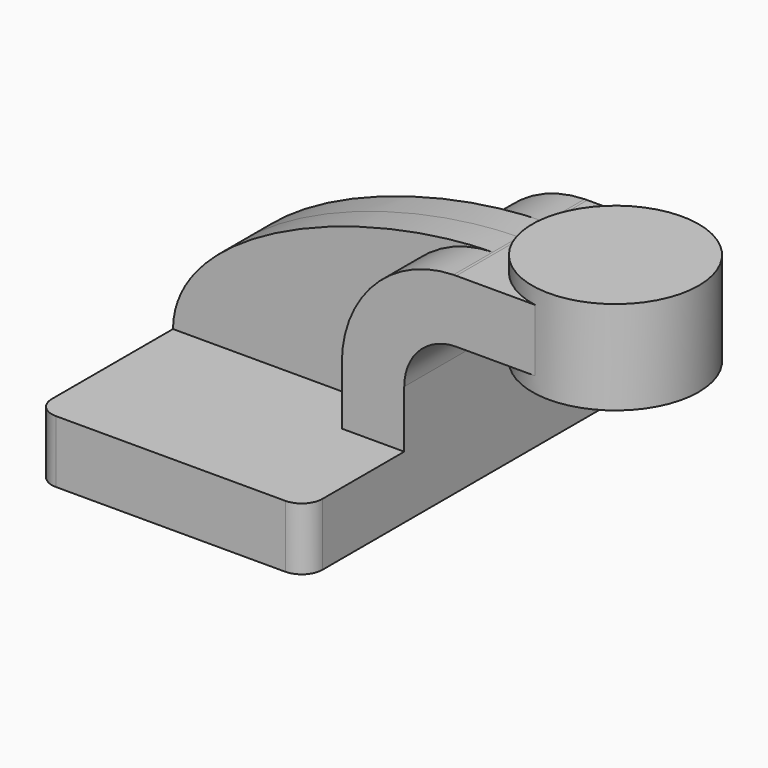
from build123d import *

# Parameters (mm, degrees)
F1_DEPTH = 62.5
F2_DEPTH = 25
F3_DEPTH = 10
F0_W     = 25.4
F0_H     = 19.05
F4_DEPTH = 25
F6_R     = 6.3


with BuildPart() as f1:
    # F0 (on Front) → F1 (new body, symmetric)
    with BuildSketch(Plane.XZ):
        Polygon((22.225, 9.525), (-41.275, 9.525), (-41.275, -9.525), (41.275, -9.525), (41.275, 9.525), align=None)
    extrude(amount=F1_DEPTH, both=True)

    # F0 (on Front) → F2 (join, symmetric)
    with BuildSketch(Plane.XZ):
        with BuildLine():
            Line((22.225, 27), (22.225, 9.525))
            Line((22.225, 9.525), (41.275, 9.525))
            Line((41.275, 9.525), (41.275, 27))
            ThreePointArc((41.275, 27), (45.9246798487, 38.2253201513), (57.15, 42.875))
            Line((57.15, 42.875), (60.325, 42.875))
            Line((60.325, 42.875), (60.325, 61.925))
            Line((60.325, 61.925), (57.15, 61.925))
            add(Edge.make_bspline(
                [(56.3095148164, 61.9148852161), (56.5902291642, 61.9192274348), (56.8703973727, 61.9226005748), (57.15, 61.925)],
                knots=[110.7716747291, 110.7716747291, 110.7716747291, 110.7716747291, 111.5044421761, 111.5044421761, 111.5044421761, 111.5044421761], degree=3))
            ThreePointArc((56.3095148164, 61.9148852161), (32.1589058859, 51.3967383062), (22.225, 27))
        make_face()
    extrude(amount=F2_DEPTH, both=True)

    # F0 (on Front) → F3 (join, symmetric)
    with BuildSketch(Plane.XZ):
        with BuildLine():
            add(Edge.make_bspline(
                [(-41.275, 9.525), (-41.0414624957, 38.4566380676), (13.8742257665, 61.2584766517), (56.3095148164, 61.9148852161)],
                knots=[0, 0, 0, 0, 110.7716747291, 110.7716747291, 110.7716747291, 110.7716747291], degree=3))
            Line((-41.275, 9.525), (22.225, 9.525))
            Line((22.225, 9.525), (22.225, 27))
            ThreePointArc((22.225, 27), (32.1589058859, 51.3967383062), (56.3095148164, 61.9148852161))
        make_face()
    extrude(amount=F3_DEPTH, both=True)

    # F0 (on Front) → F4 (join, symmetric)
    with BuildSketch(Plane.XZ):
        with Locations((73.025, 52.4)):
            Rectangle(F0_W, F0_H)
    extrude(amount=F4_DEPTH, both=True)

    # F0 (on Front) → F5 (revolve)
    with BuildSketch(Plane.XZ):
        Polygon((85.725, 66.675), (85.725, 61.925), (85.725, 42.875), (85.725, 38.1), (111.125, 38.1), (111.125, 66.675), align=None)
    revolve(axis=Axis((85.725, 0, 52.3875), (0, 0, 1)))

    # F6
    f6_edges = [f1.edges().sort_by_distance(p)[0] for p in [
        (41.275, -62.5, 0),
        (-41.275, -62.5, 0),
        (41.275, 62.5, 0),
        (-41.275, 62.5, 0),
    ]]
    fillet(f6_edges, radius=F6_R)


solid = f1.part
